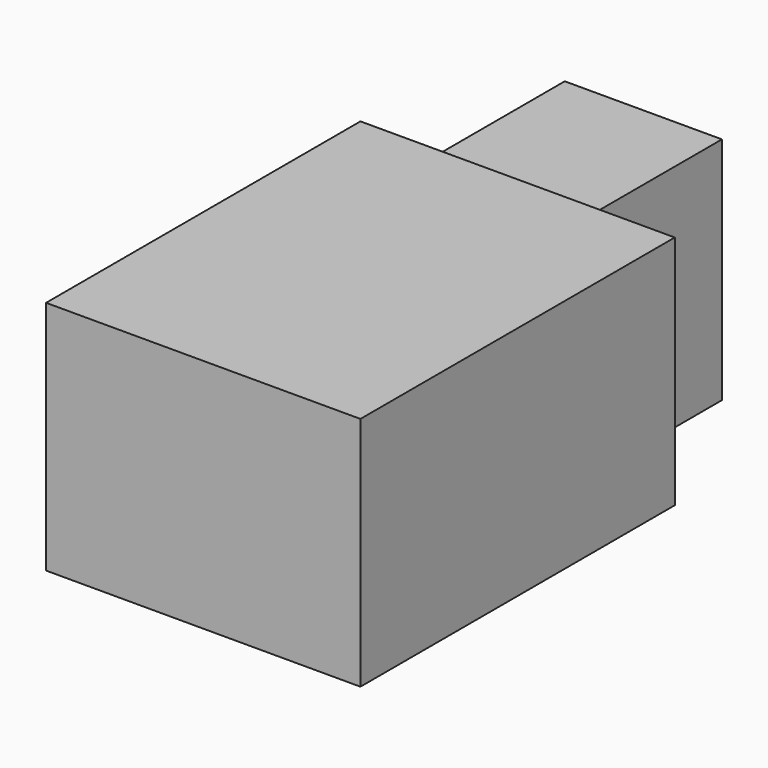
from build123d import *

# Parameters (mm, degrees)
F0_W     = 50.8
F0_H     = 50.8
F1_DEPTH = 74.224433
F2_R     = 12.7
F3_DEPTH = 25.4
F4_W     = 101.6
F4_H     = 76.2
F5_DEPTH = 127


with BuildPart() as f1:
    # F0 (on Top) → F1 (new body)
    with BuildSketch(Plane.XY):
        Rectangle(F0_W, F0_H)
    extrude(amount=F1_DEPTH)

    # F2 (on face) → F3 (join)
    with BuildSketch(Plane(origin=(-25.4, 0, 0), x_dir=(0, -1, 0), z_dir=(-1, 0, 0))):
        with Locations((0, 37.112216)):
            Circle(F2_R)
    extrude(amount=F3_DEPTH)

    # F4 (on face) → F5 (join)
    with BuildSketch(Plane.XZ.offset(25.4)):
        with Locations((0, 37.112216)):
            Rectangle(F4_W, F4_H)
    extrude(amount=F5_DEPTH)


solid = f1.part
